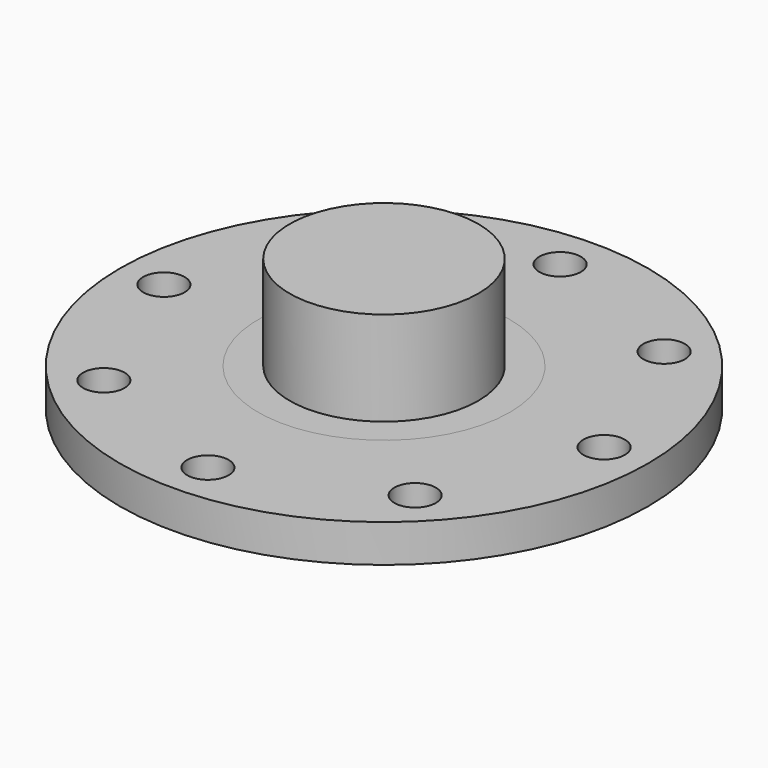
from build123d import *

# Parameters (mm, degrees)
F0_R     = 20
F0_R_2   = 15
F1_DEPTH = 3
F2_DEPTH = 21
F0_R_3   = 42
F0_R_4   = 3.3
F3_DEPTH = 6
F4_DEPTH = 6


with BuildPart() as f1:
    # F0 (on Top) → F1 (new body)
    with BuildSketch(Plane.XY):
        Circle(F0_R)
        Circle(F0_R_2, mode=Mode.SUBTRACT)
    extrude(amount=-F1_DEPTH)


with BuildPart() as f2:
    # F0 (on Top) → F2 (new body)
    with BuildSketch(Plane.XY):
        Circle(F0_R_2)
    extrude(amount=F2_DEPTH)


with BuildPart() as f3:
    # F0 (on Top) → F3 (new body)
    with BuildSketch(Plane.XY):
        Circle(F0_R_3)
        with Locations((-24.748737, -24.748737)):
            Circle(F0_R_4, mode=Mode.SUBTRACT)
        with Locations((0, -35)):
            Circle(F0_R_4, mode=Mode.SUBTRACT)
        with Locations((24.748737, -24.748737)):
            Circle(F0_R_4, mode=Mode.SUBTRACT)
        with Locations((-35, 0)):
            Circle(F0_R_4, mode=Mode.SUBTRACT)
        with Locations((-24.748737, 24.748737)):
            Circle(F0_R_4, mode=Mode.SUBTRACT)
        Circle(F0_R, mode=Mode.SUBTRACT)
        with Locations((35, 0)):
            Circle(F0_R_4, mode=Mode.SUBTRACT)
        with Locations((0, 35)):
            Circle(F0_R_4, mode=Mode.SUBTRACT)
        with Locations((24.748737, 24.748737)):
            Circle(F0_R_4, mode=Mode.SUBTRACT)
    extrude(amount=F3_DEPTH)


with BuildPart() as f4:
    # F0 (on Top) → F4 (new body)
    with BuildSketch(Plane.XY):
        Circle(F0_R)
        Circle(F0_R_2, mode=Mode.SUBTRACT)
    extrude(amount=F4_DEPTH)


solid = Compound([f1.part, f2.part, f3.part, f4.part])
